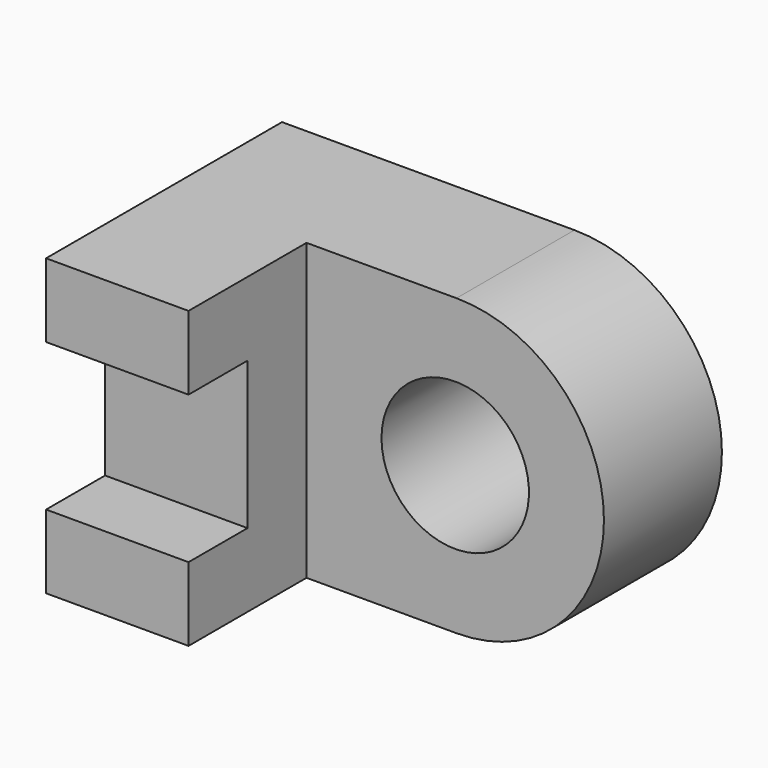
from build123d import *

# Parameters (mm, degrees)
F1_DEPTH = 25.4
F2_W     = 25.8318
F2_H     = 12.7
F3_DEPTH = 25.4
F5_DEPTH = 25.4
F7_DEPTH = 25.4
F8_W     = 12.2682
F8_H     = 12.7
F9_DEPTH = 6.35


with BuildPart() as f1:
    # F0 (on Front) → F1 (new body)
    with BuildSketch(Plane.XZ):
        Polygon((0, 25.4), (0, 0), (38.1, 0), (38.1, 25.4), (12.7, 25.4), align=None)
    extrude(amount=F1_DEPTH)

    # F2 (on face) → F3 (cut)
    with BuildSketch(Plane.XY.offset(25.4)):
        with Locations((25.1841, -19.05)):
            Rectangle(F2_W, F2_H)
    extrude(amount=-F3_DEPTH, mode=Mode.SUBTRACT)

    # F4 (on face) → F5 (cut)
    with BuildSketch(Plane.XZ.offset(12.7)):
        with BuildLine():
            Line((38.1, 25.4), (25.1841, 25.4))
            ThreePointArc((25.1841, 25.4), (37.8841, 12.7), (25.1841, 0))
            Line((25.1841, 0), (38.1, 0))
            Line((38.1, 0), (38.1, 25.4))
        make_face()
    extrude(amount=-F5_DEPTH, mode=Mode.SUBTRACT)

    # F6 (on face) → F7 (cut)
    with BuildSketch(Plane.XZ.offset(12.7)):
        with BuildLine():
            Line((18.72615, 12.7), (31.42615, 12.7))
            ThreePointArc((31.42615, 12.7), (25.07615, 19.05), (18.72615, 12.7))
        make_face()
        with BuildLine():
            ThreePointArc((18.72615, 12.7), (25.07615, 6.35), (31.42615, 12.7))
            Line((31.42615, 12.7), (18.72615, 12.7))
        make_face()
    extrude(amount=-F7_DEPTH, mode=Mode.SUBTRACT)

    # F8 (on face) → F9 (cut)
    with BuildSketch(Plane.XZ.offset(25.4)):
        with Locations((6.1341, 12.7)):
            Rectangle(F8_W, F8_H)
    extrude(amount=-F9_DEPTH, mode=Mode.SUBTRACT)


solid = f1.part
